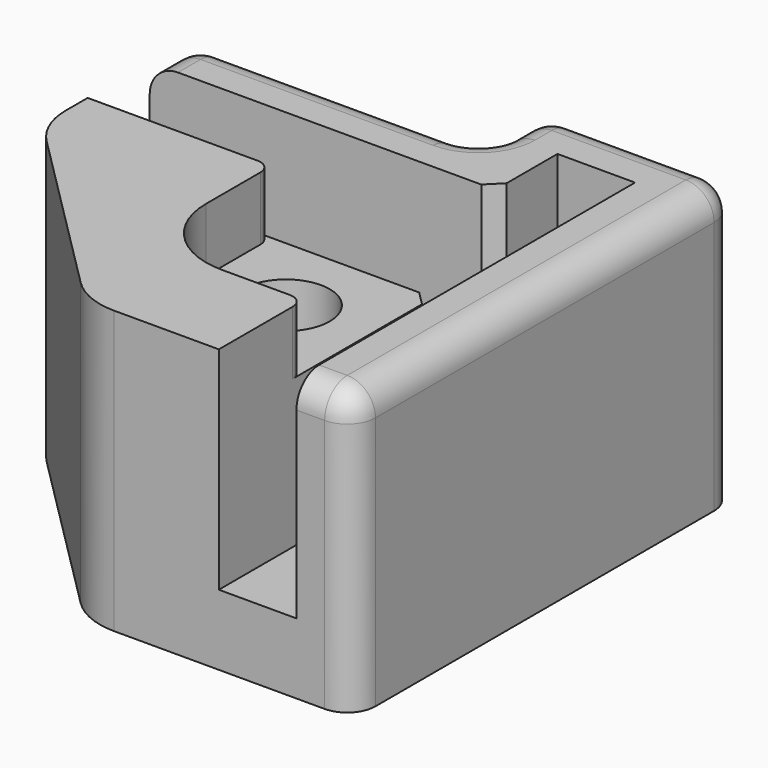
from build123d import *

# Parameters (mm, degrees)
F0_W      = 34
F0_H      = 34
F1_DEPTH  = 20
F3_DEPTH  = 15
F4_SIZE   = 1
F6_W      = 20.5
F6_H      = 5.5
F7_DEPTH  = 20.001
F8_R      = 2
F9_R      = 2
F10_DEPTH = 4.5
F11_R     = 3.1
F12_DEPTH = 15.501
F13_R     = 1
F14_SIZE  = 15
F15_R     = 5


with BuildPart() as f1:
    # F0 (on Top) → F1 (new body)
    with BuildSketch(Plane.XY):
        with Locations((17, 17)):
            Rectangle(F0_W, F0_H)
    extrude(amount=F1_DEPTH)

    # F2 (on face) → F3 (cut)
    with BuildSketch(Plane.XY.offset(20)):
        Polygon((24.5, 0), (30, 0), (30, 30), (24.5, 30), (24.5, 24.5), (0, 24.5), (0, 19), (24.5, 19), align=None)
    extrude(amount=-F3_DEPTH, mode=Mode.SUBTRACT)

    # F4
    f4_edges = [f1.edges().sort_by_distance(p)[0] for p in [
        (24.5, 24.5, 12.5),
        (24.5, 19, 12.5),
    ]]
    chamfer(f4_edges, length=F4_SIZE)

    # F6 (on face) → F7 (cut, through all)
    with BuildSketch(Plane.XY.offset(20)):
        with Locations((10.25, 31.25)):
            Rectangle(F6_W, F6_H)
    extrude(amount=-F7_DEPTH, mode=Mode.SUBTRACT)

    # F8
    f8_edges = [f1.edges().sort_by_distance(p)[0] for p in [
        (0, 28.5, 10),
        (20.5, 28.5, 10),
        (20.5, 34, 10),
        (34, 34, 10),
        (34, 0, 10),
    ]]
    fillet(f8_edges, radius=F8_R)

    # F9
    f9_edges = [f1.edges().sort_by_distance(p)[0] for p in [
        (31, 0, 20),
    ]]
    fillet(f9_edges, radius=F9_R)

    # F5 (on face) → F10 (cut)
    with BuildSketch(Plane.XY.offset(20)):
        with BuildLine():
            Line((13.0466991411, 20.6966991411), (13.0466991411, 13.1966991411))
            ThreePointArc((13.0466991411, 13.1966991411), (14.7015458274, 9.2015458274), (18.6966991411, 7.5466991411))
            Line((18.6966991411, 7.5466991411), (26.0466991411, 7.5466991411))
            Line((26.0466991411, 7.5466991411), (26.0466991411, 20.6966991411))
            Line((26.0466991411, 20.6966991411), (13.0466991411, 20.6966991411))
        make_face()
    extrude(amount=-F10_DEPTH, mode=Mode.SUBTRACT)

    # F11 (on face) → F12 (cut, through all)
    with BuildSketch(Plane.XY.offset(15.5)):
        with Locations((18.6966991411, 13.1966991411)):
            Circle(F11_R)
    extrude(amount=-F12_DEPTH, mode=Mode.SUBTRACT)

    # F13
    f13_edges = [f1.edges().sort_by_distance(p)[0] for p in [
        (13.046699, 19, 17.75),
        (24.5, 7.546699, 17.75),
    ]]
    fillet(f13_edges, radius=F13_R)

    # F14
    f14_edges = [f1.edges().sort_by_distance(p)[0] for p in [
        (0, 0, 10),
    ]]
    chamfer(f14_edges, length=F14_SIZE)

    # F15
    f15_edges = [f1.edges().sort_by_distance(p)[0] for p in [
        (0, 15, 10),
        (15, 0, 10),
    ]]
    fillet(f15_edges, radius=F15_R)


solid = f1.part
